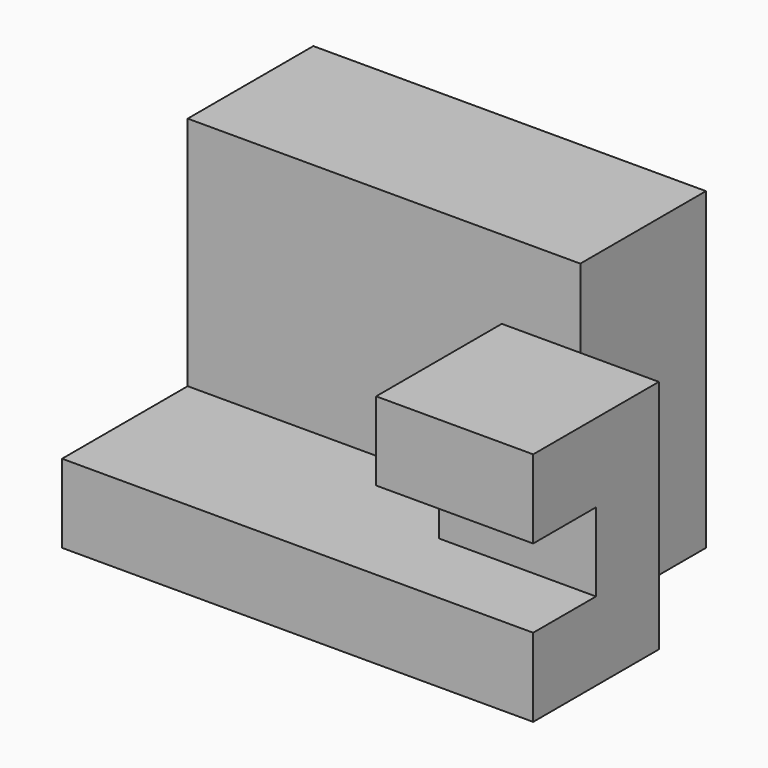
from build123d import *

# Parameters (mm, degrees)
F0_W     = 40
F0_H     = 20
F1_DEPTH = 10
F2_DEPTH = 30
F3_DEPTH = 20
F4_W     = 10
F4_H     = 10
F5_DEPTH = 25


with BuildPart() as f1:
    # F0 (on Top) → F1 (new body)
    with BuildSketch(Plane.XY):
        Polygon((0, 40), (0, 20), (40, 20), (50, 20), (50, 40), align=None)
        with Locations((20, 10)):
            Rectangle(F0_W, F0_H)
        Polygon((40, 20), (40, 0), (60, 0), (60, 20), (50, 20), align=None)
    extrude(amount=-F1_DEPTH)

    # F0 (on Top) → F2 (join)
    with BuildSketch(Plane.XY):
        Polygon((0, 40), (0, 20), (40, 20), (50, 20), (50, 40), align=None)
    extrude(amount=F2_DEPTH)

    # F0 (on Top) → F3 (join)
    with BuildSketch(Plane.XY):
        Polygon((40, 20), (40, 0), (60, 0), (60, 20), (50, 20), align=None)
    extrude(amount=F3_DEPTH)

    # F4 (on face) → F5 (cut)
    with BuildSketch(Plane.YZ.offset(60)):
        with Locations((5, 5)):
            Rectangle(F4_W, F4_H)
    extrude(amount=-F5_DEPTH, mode=Mode.SUBTRACT)


solid = f1.part
